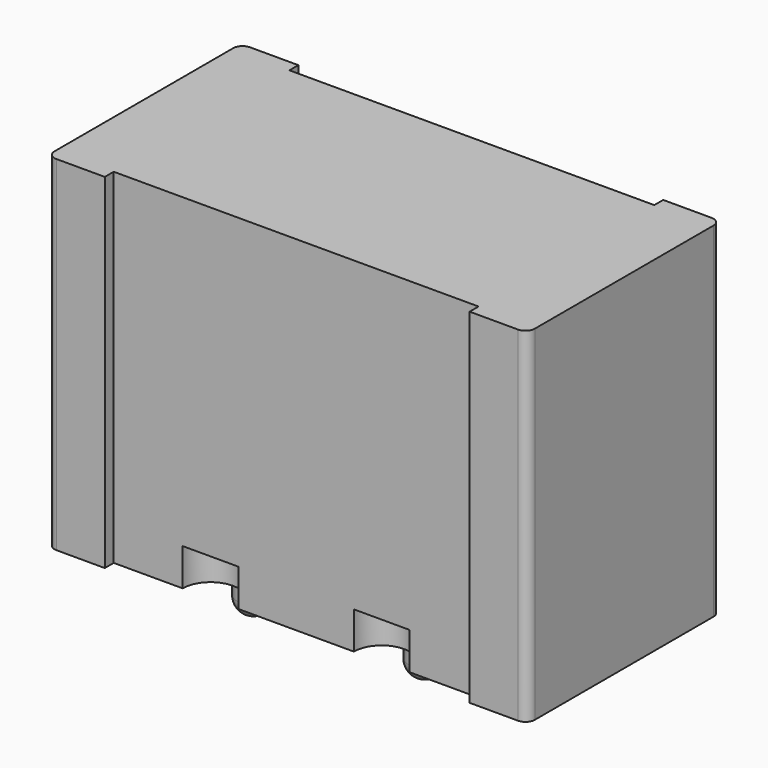
from build123d import *

# Parameters (mm, degrees)
SKETCH_W        = 12.9
SKETCH_H        = 6.5
PAD_DEPTH       = 9.25
FILLET_R        = 0.25
SKETCH001_W     = 9.8
SKETCH001_H     = 0.3
POCKET_DEPTH    = 9.251
SKETCH002_R     = 0.75
POCKET001_DEPTH = 1
PAD001_DEPTH    = 1.95
FILLET001_R     = 0.44


with BuildPart() as part:
    # Sketch → Pad (new body)
    with BuildSketch(Plane.XY):
        Rectangle(SKETCH_W, SKETCH_H)
    extrude(amount=-PAD_DEPTH)

    # Fillet
    fillet_edges = [part.edges().sort_by_distance(p)[0] for p in [
        (6.45, -3.25, -4.625),
        (-6.45, -3.25, -4.625),
        (-6.45, 3.25, -4.625),
        (6.45, 3.25, -4.625),
    ]]
    fillet(fillet_edges, radius=FILLET_R)

    # Sketch001 (on Face2 of Fillet) → Pocket (cut, through all)
    with BuildSketch(Plane.XY):
        with Locations((0, -3.1)):
            Rectangle(SKETCH001_W, SKETCH001_H)
        with Locations((0, 3.1)):
            Rectangle(SKETCH001_W, SKETCH001_H)
    extrude(amount=-POCKET_DEPTH, mode=Mode.SUBTRACT)

    # Sketch002 (on Face4 of Pocket) → Pocket001 (cut)
    with BuildSketch(Plane(origin=(0, 0, -9.25), x_dir=(1, 0, 0), z_dir=(0, 0, -1))):
        with Locations((-2.3, 2.95)):
            Circle(SKETCH002_R)
        with Locations((2.3, 2.95)):
            Circle(SKETCH002_R)
        with Locations((-2.3, -2.95)):
            Circle(SKETCH002_R)
        with Locations((2.3, -2.95)):
            Circle(SKETCH002_R)
    extrude(amount=-POCKET001_DEPTH, mode=Mode.SUBTRACT)

    # Sketch003 → Pad001 (join, symmetric)
    with BuildSketch(Plane.XZ):
        with BuildLine():
            ThreePointArc((-1.85, -9.25), (-2.3, -8.8), (-2.75, -9.25))
            Line((-2.75, -9.25), (-2.75, -9.75))
            ThreePointArc((-2.75, -9.75), (-2.3, -10.2), (-1.85, -9.75))
            Line((-1.85, -9.75), (-1.85, -9.25))
        make_face()
        with BuildLine():
            ThreePointArc((2.75, -9.25), (2.3, -8.8), (1.85, -9.25))
            Line((1.85, -9.25), (1.85, -9.75))
            ThreePointArc((1.85, -9.75), (2.3, -10.2), (2.75, -9.75))
            Line((2.75, -9.75), (2.75, -9.25))
        make_face()
    extrude(amount=PAD001_DEPTH, both=True)

    # Fillet001
    fillet001_edges = [part.edges().sort_by_distance(p)[0] for p in [
        (-2.3, 1.95, -10.2),
        (2.3, 1.95, -10.2),
        (2.3, -1.95, -10.2),
        (-2.3, -1.95, -10.2),
    ]]
    fillet(fillet001_edges, radius=FILLET001_R)


with BuildPart() as part_1:
    # Body placement: moved
    add(part.part.moved(Location((0, 0, -0.3))))


solid = part_1.part
